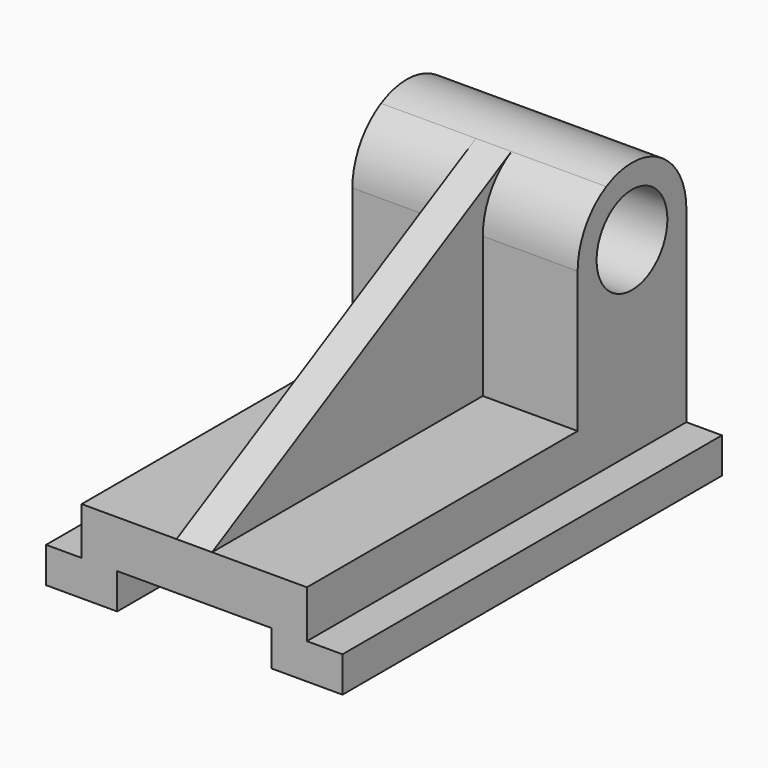
from build123d import *

# Parameters (mm, degrees)
F0_W     = 40
F0_H     = 3
F1_DEPTH = 12.5
F2_DEPTH = 9.5
F0_R     = 3.73
F3_DEPTH = 9.5
F4_DEPTH = 1.5
F5_W     = 13
F5_H     = 3
F6_DEPTH = 40


with BuildPart() as f1:
    # F0 (on Right) → F1 (new body, symmetric)
    with BuildSketch(Plane.YZ):
        with Locations((20, 1.5)):
            Rectangle(F0_W, F0_H)
    extrude(amount=F1_DEPTH, both=True)

    # F0 (on Right) → F2 (join, symmetric)
    with BuildSketch(Plane.YZ):
        Polygon((0, 7), (0, 3), (40, 3), (40, 7), (28.54, 7), align=None)
    extrude(amount=F2_DEPTH, both=True)

    # F0 (on Right) → F3 (join, symmetric)
    with BuildSketch(Plane.YZ):
        with BuildLine():
            Line((28.54, 7), (40, 7))
            Line((40, 7), (40, 18.87))
            ThreePointArc((40, 18.87), (37.212814, 23.786579), (31.562741, 23.920114))
            ThreePointArc((31.562741, 23.920114), (29.353421, 21.812814), (28.54, 18.87))
            Line((28.54, 18.87), (28.54, 7))
        make_face()
        with Locations((34.27, 18.87)):
            Circle(F0_R, mode=Mode.SUBTRACT)
    extrude(amount=F3_DEPTH, both=True)

    # F0 (on Right) → F4 (join, symmetric)
    with BuildSketch(Plane.YZ):
        with BuildLine():
            Line((31.562741, 23.920114), (0, 7))
            Line((0, 7), (28.54, 7))
            Line((28.54, 7), (28.54, 18.87))
            ThreePointArc((28.54, 18.87), (29.353421, 21.812814), (31.562741, 23.920114))
        make_face()
    extrude(amount=F4_DEPTH, both=True)

    # F5 (on face) → F6 (cut, through all)
    with BuildSketch(Plane.XZ):
        with Locations((0, 1.5)):
            Rectangle(F5_W, F5_H)
    extrude(amount=-F6_DEPTH, mode=Mode.SUBTRACT)


solid = f1.part
